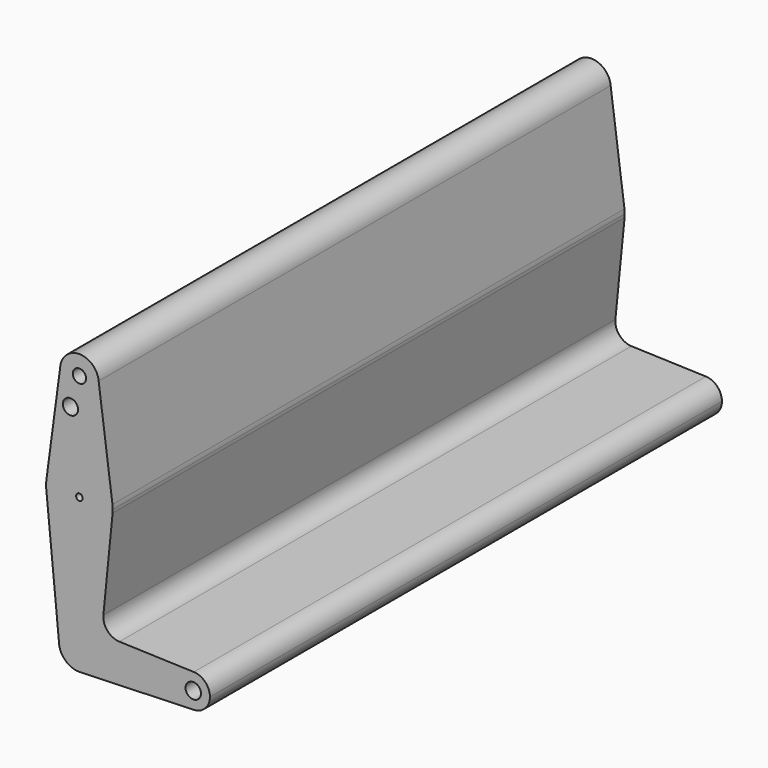
from build123d import *

# Parameters (mm, degrees)
F0_R     = 3.175
F0_R_2   = 3.620381
F0_R_3   = 1.5875
F0_R_4   = 3.660982
F1_DEPTH = 304.8


with BuildPart() as f1:
    # F0 (on Front) → F1 (new body)
    with BuildSketch(Plane.XZ):
        with BuildLine():
            ThreePointArc((-9.198373, 114.675509), (-0.187794, 105.095881), (9.206035, 114.3))
            ThreePointArc((9.206035, 114.3), (9.195952, 114.730736), (9.165728, 115.160529))
            ThreePointArc((9.165728, 115.160529), (-0.243059, 123.502825), (-9.198373, 114.675509))
        make_face()
        with Locations((0, 114.3)):
            Circle(F0_R, mode=Mode.SUBTRACT)
        with BuildLine():
            ThreePointArc((9.165728, 115.160529), (9.195952, 114.730736), (9.206035, 114.3))
            ThreePointArc((9.206035, 114.3), (-0.187794, 105.095881), (-9.198373, 114.675509))
            Line((-9.198373, 114.675509), (-15.736007, 65.596119))
            ThreePointArc((-15.736007, 65.596119), (0.005029, 79.374999), (15.737332, 65.586148))
            Line((15.737332, 65.586148), (9.165728, 115.160529))
        make_face()
        with Locations((-4.266003, 100.0252)):
            Circle(F0_R_2, mode=Mode.SUBTRACT)
        with BuildLine():
            ThreePointArc((15.875, 63.5), (15.840546, 64.545343), (15.737332, 65.586148))
            ThreePointArc((15.737332, 65.586148), (0.005029, 79.374999), (-15.736007, 65.596119))
            ThreePointArc((-15.736007, 65.596119), (-15.872515, 63.780869), (-15.800315, 61.961926))
            ThreePointArc((-15.800315, 61.961926), (-0.014907, 47.625007), (15.797399, 61.932255))
            ThreePointArc((15.797399, 61.932255), (15.855588, 62.715168), (15.875, 63.5))
        make_face()
        with Locations((0, 63.5)):
            Circle(F0_R_3, mode=Mode.SUBTRACT)
        with BuildLine():
            ThreePointArc((15.797399, 61.932255), (-0.014907, 47.625007), (-15.800315, 61.961926))
            Line((-15.800315, 61.961926), (-9.768663, 0))
            ThreePointArc((-9.768663, 0), (0, 9.768663), (9.768663, 0))
            ThreePointArc((9.768663, 0), (7.136156, -6.670985), (0.657478, -9.746512))
            Line((0.657478, -9.746512), (54.48593, -7.932999))
            ThreePointArc((54.48593, -7.932999), (46.281163, 0), (54.48593, 7.932999))
            Line((54.48593, 7.932999), (19.066686, 9.126295))
            ThreePointArc((19.066686, 9.126295), (13.375669, 11.808961), (11.416467, 17.787748))
            Line((11.416467, 17.787748), (15.797399, 61.932255))
        make_face()
        with BuildLine():
            ThreePointArc((9.768663, 0), (0, 9.768663), (-9.768663, 0))
            ThreePointArc((-9.768663, 0), (-6.907488, -6.907488), (0, -9.768663))
            Line((0, -9.768663), (0.657478, -9.746512))
            ThreePointArc((0.657478, -9.746512), (7.136156, -6.670985), (9.768663, 0))
        make_face()
        with BuildLine():
            Line((0.657478, -9.746512), (0, -9.768663))
            ThreePointArc((0, -9.768663), (0.328926, -9.763124), (0.657478, -9.746512))
        make_face()
        with BuildLine():
            ThreePointArc((62.156163, 0), (59.925034, 5.517358), (54.48593, 7.932999))
            ThreePointArc((54.48593, 7.932999), (46.281163, 0), (54.48593, -7.932999))
            ThreePointArc((54.48593, -7.932999), (59.925034, -5.517358), (62.156163, 0))
        make_face()
        with Locations((54.218663, 0)):
            Circle(F0_R_4, mode=Mode.SUBTRACT)
    extrude(amount=F1_DEPTH)


solid = f1.part
